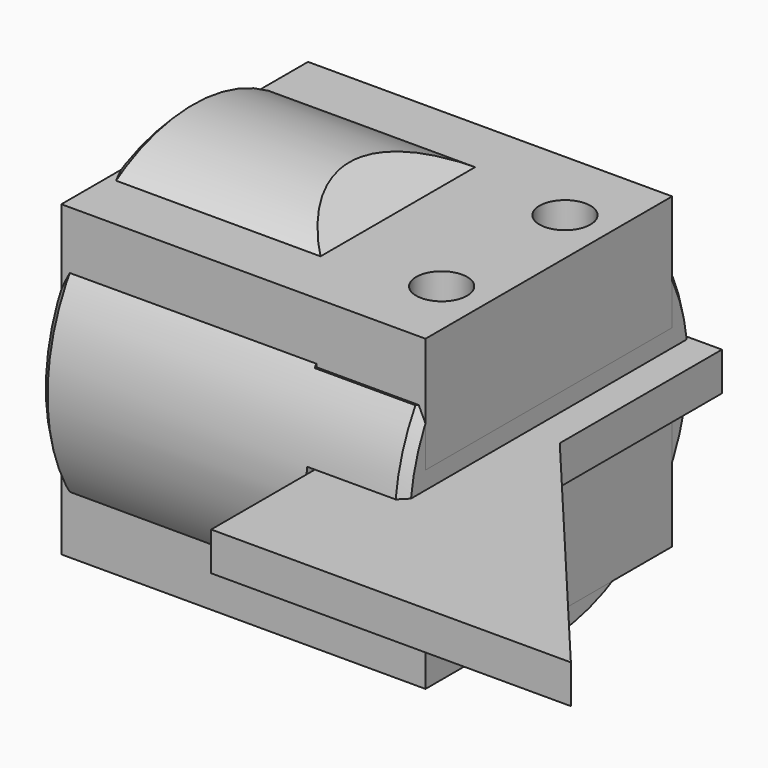
from build123d import *

# Parameters (mm, degrees)
SKETCH001_R       = 15
PAD_DEPTH         = 30
CHAMFER_SIZE      = 0.7
POCKET_DEPTH      = 15.001
POCKET_DEPTH_BACK = -15.001
SKETCH003_R       = 1.65
POCKET001_DEPTH   = 6
SKETCH004_R       = 7.25
POCKET002_DEPTH   = 17
PAD001_DEPTH      = 3.175
SKETCH006_W       = 30
SKETCH006_H       = 25.4
PAD002_DEPTH      = 12.7
SKETCH007_R       = 7.25
POCKET003_DEPTH   = 17
POCKET004_DEPTH   = 25.401
SKETCH010_R       = 2.1
POCKET005_DEPTH   = 9.525


with BuildPart() as body:
    # Sketch001 → Pad (new body)
    with BuildSketch(Plane.YZ):
        Circle(SKETCH001_R)
    extrude(amount=PAD_DEPTH)

    # Chamfer
    chamfer_edges = [body.edges().sort_by_distance(p)[0] for p in [
        (30, -15, 0),
        (0, -15, 0),
    ]]
    chamfer(chamfer_edges, length=CHAMFER_SIZE)

    # Sketch002 (on DatumPlane) → Pocket (cut, two sides)
    with BuildSketch(Plane(origin=(15, 0, 0), x_dir=(1, 0, 0), z_dir=(0, -1, 0))) as pocket_sk:
        Polygon((15, -1.5875), (7, -1.5875), (7, 1.7125), (15, 1.7125), (15, 7.7125), (6, 7.7125), (6, 10.7125), (-4.998523, 17.0625), (-4.998523, 38.7125), (16, 38.7125), (16, -1.5875), align=None)
    extrude(amount=-POCKET_DEPTH, mode=Mode.SUBTRACT)
    extrude(pocket_sk.sketch, amount=-POCKET_DEPTH_BACK, mode=Mode.SUBTRACT)

    # Sketch003 (on Face8 of Pocket) → Pocket001 (cut)
    with BuildSketch(Plane(origin=(0, 0, 7.7125), x_dir=(0, -1, 0), z_dir=(0, 0, 1))):
        with Locations((9, 25.75)):
            Circle(SKETCH003_R)
        with Locations((0, 25.75)):
            Circle(SKETCH003_R)
        with Locations((-9, 25.75)):
            Circle(SKETCH003_R)
    extrude(amount=-POCKET001_DEPTH, mode=Mode.SUBTRACT)

    # Sketch004 (on Face17 of Pocket001) → Pocket002 (cut)
    with BuildSketch(Plane(origin=(0, 0, 0), x_dir=(0, 1, 0), z_dir=(-1, 0, 0))):
        Circle(SKETCH004_R)
    extrude(amount=-POCKET002_DEPTH, mode=Mode.SUBTRACT)


with BuildPart() as body001:
    # Sketch005 (on ShapeBinder) → Pad001 (new body)
    with BuildSketch(Plane.XY.offset(-1.5875)):
        Polygon((22.5, 14.7), (22.5, -25.4), (52.134931, -25.4), (32.5, -2), (32.5, 14.7), align=None)
    extrude(amount=PAD001_DEPTH)


with BuildPart() as body002:
    # Sketch006 → Pad002 (new body, symmetric)
    with BuildSketch(Plane.XY):
        with Locations((15, 0)):
            Rectangle(SKETCH006_W, SKETCH006_H)
    extrude(amount=PAD002_DEPTH, both=True)

    # Sketch007 (on Face4 of Pad002) → Pocket003 (cut)
    with BuildSketch(Plane(origin=(0, 0, 0), x_dir=(0, -1, 0), z_dir=(-1, 0, 0))):
        Circle(SKETCH007_R)
    extrude(amount=-POCKET003_DEPTH, mode=Mode.SUBTRACT)

    # Sketch008 (on Face6 of Pocket003) → Pocket004 (cut, through all)
    with BuildSketch(Plane.XZ.offset(12.7)):
        Polygon((41, -1.5875), (22.5, -1.5875), (22.5, 3.175), (36, 3.175), (36, 18.175), (21, 18.175), (21, 33.175), (41, 33.175), align=None)
    extrude(amount=-POCKET004_DEPTH, mode=Mode.SUBTRACT)

    # Sketch010 (on Face8 of Pocket004) → Pocket005 (cut)
    with BuildSketch(Plane.XY.offset(12.7)):
        with Locations((26.25, -6.35)):
            Circle(SKETCH010_R)
        with Locations((26.25, 6.35)):
            Circle(SKETCH010_R)
    extrude(amount=-POCKET005_DEPTH, mode=Mode.SUBTRACT)


solid = Compound([body.part, body001.part, body002.part])
